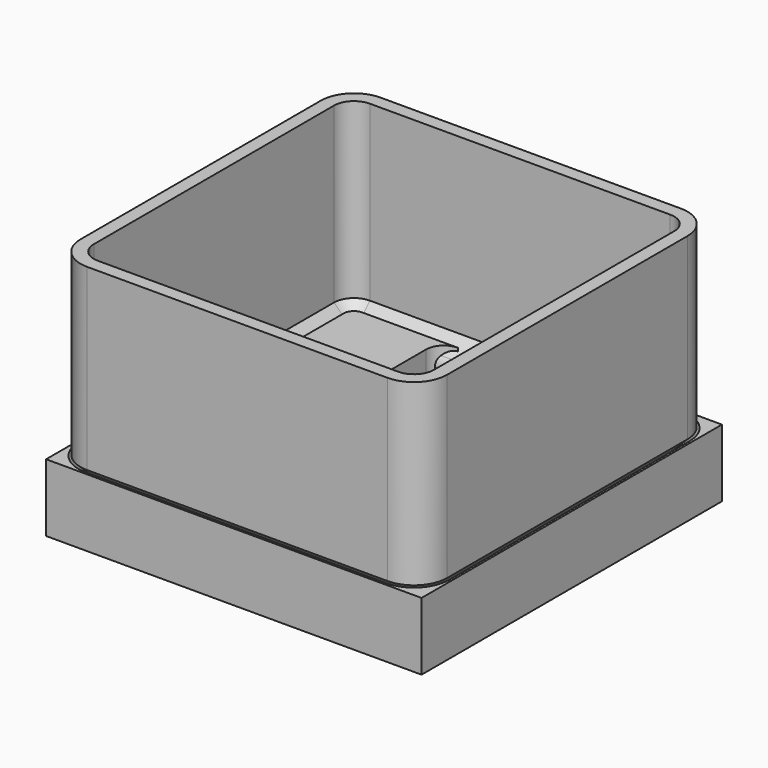
from build123d import *

# Parameters (mm, degrees)
SKETCH002_W       = 42.5
SKETCH002_H       = 42.5
PAD_DEPTH         = 4.65
PAD_DEPTH_BACK    = 3
POCKET_DEPTH      = 124.178927
POCKET_DEPTH_BACK = 125.828927
PAD001_DEPTH      = 25
THICKNESS_T       = -1.5


with BuildPart() as body:
    # Sketch002 → Pad (new body, two sides)
    with BuildSketch(Plane.XY) as pad_sk:
        Rectangle(SKETCH002_W, SKETCH002_H)
    extrude(amount=PAD_DEPTH)
    extrude(pad_sk.sketch, amount=-PAD_DEPTH_BACK)

    # Sketch003 → Pocket (cut, two sides)
    with BuildSketch(Plane.XY) as pocket_sk:
        with BuildLine():
            Line((16.15, -8.15), (10.15, -8.15))
            ThreePointArc((10.15, -8.15), (8.735786, -8.735786), (8.15, -10.15))
            Line((8.15, -10.15), (8.15, -16.15))
            ThreePointArc((6.15, -18.15), (7.564214, -17.564214), (8.15, -16.15))
            Line((6.15, -18.15), (0, -18.15))
            Line((-6.15, -18.15), (0, -18.15))
            ThreePointArc((-8.15, -16.15), (-7.564214, -17.564214), (-6.15, -18.15))
            Line((-8.15, -10.15), (-8.15, -16.15))
            ThreePointArc((-8.15, -10.15), (-8.735786, -8.735786), (-10.15, -8.15))
            Line((-16.15, -8.15), (-10.15, -8.15))
            ThreePointArc((-18.15, -6.15), (-17.564214, -7.564214), (-16.15, -8.15))
            Line((-18.15, 0), (-18.15, -6.15))
            Line((-18.15, 0), (-18.15, 6.15))
            ThreePointArc((-16.15, 8.15), (-17.564214, 7.564214), (-18.15, 6.15))
            Line((-16.15, 8.15), (-10.15, 8.15))
            ThreePointArc((-10.15, 8.15), (-8.735786, 8.735786), (-8.15, 10.15))
            Line((-8.15, 10.15), (-8.15, 16.15))
            ThreePointArc((-6.15, 18.15), (-7.564214, 17.564214), (-8.15, 16.15))
            Line((-6.15, 18.15), (0, 18.15))
            Line((6.15, 18.15), (0, 18.15))
            ThreePointArc((8.15, 16.15), (7.564214, 17.564214), (6.15, 18.15))
            Line((8.15, 10.15), (8.15, 16.15))
            ThreePointArc((8.15, 10.15), (8.735786, 8.735786), (10.15, 8.15))
            Line((16.15, 8.15), (10.15, 8.15))
            ThreePointArc((18.15, 6.15), (17.564214, 7.564214), (16.15, 8.15))
            Line((18.15, 0), (18.15, 6.15))
            Line((18.15, 0), (18.15, -6.15))
            ThreePointArc((16.15, -8.15), (17.564214, -7.564214), (18.15, -6.15))
        make_face()
    extrude(amount=-POCKET_DEPTH, mode=Mode.SUBTRACT)
    extrude(pocket_sk.sketch, amount=POCKET_DEPTH_BACK, mode=Mode.SUBTRACT)

    # SubtractivePipe: sweep along a path in Sketch
    with BuildLine(Plane.XY) as subtractivepipe_path:
        Line((-17, -21), (17, -21))
        ThreePointArc((17, -21), (19.828427, -19.828427), (21, -17))
        Line((21, -17), (21, 17))
        ThreePointArc((21, 17), (19.828427, 19.828427), (17, 21))
        Line((17, 21), (-17, 21))
        ThreePointArc((-17, 21), (-19.828427, 19.828427), (-21, 17))
        Line((-21, 17), (-21, -17))
        ThreePointArc((-21, -17), (-19.828427, -19.828427), (-17, -21))
    # Sketch001 → SubtractivePipe (sweep, cut)
    with BuildSketch(Plane.XZ):
        Polygon((18.15, 4.65), (21, 4.65), (18.85, 2.5), (18.85, 0.7), (18.15, 0), align=None)
    sweep(path=subtractivepipe_path.line, mode=Mode.SUBTRACT)


with BuildPart() as body001:
    # Sketch005 → Pad001 (new body)
    with BuildSketch(Plane.XY):
        with BuildLine():
            Line((-17, -20.75), (17, -20.75))
            ThreePointArc((17, -20.75), (19.65165, -19.65165), (20.75, -17))
            Line((20.75, -17), (20.75, 17))
            ThreePointArc((20.75, 17), (19.65165, 19.65165), (17, 20.75))
            Line((17, 20.75), (-17, 20.75))
            ThreePointArc((-17, 20.75), (-19.65165, 19.65165), (-20.75, 17))
            Line((-20.75, 17), (-20.75, -17))
            ThreePointArc((-20.75, -17), (-19.65165, -19.65165), (-17, -20.75))
        make_face()
    extrude(amount=PAD001_DEPTH)

    # SubtractivePipe001: sweep along a path in Sketch005
    with BuildLine(Plane.XY) as subtractivepipe001_path:
        Line((-17, -20.75), (17, -20.75))
        ThreePointArc((17, -20.75), (19.65165, -19.65165), (20.75, -17))
        Line((20.75, -17), (20.75, 17))
        ThreePointArc((20.75, 17), (19.65165, 19.65165), (17, 20.75))
        Line((17, 20.75), (-17, 20.75))
        ThreePointArc((-17, 20.75), (-19.65165, 19.65165), (-20.75, 17))
        Line((-20.75, 17), (-20.75, -17))
        ThreePointArc((-20.75, -17), (-19.65165, -19.65165), (-17, -20.75))
    # Sketch006 → SubtractivePipe001 (sweep, cut)
    with BuildSketch(Plane.XZ):
        Polygon((20.746447, 4.75), (18.596447, 2.6), (18.596447, 0.8), (17.796447, 0), (21.279516, 0), (21.279516, 4.75), align=None)
    sweep(path=subtractivepipe001_path.line, mode=Mode.SUBTRACT)

    # Thickness
    thickness_openings = [body001.faces().sort_by_distance(p)[0] for p in [
        (0, 0, 25),
    ]]
    offset(amount=THICKNESS_T, openings=thickness_openings)


solid = Compound([body.part, body001.part])
